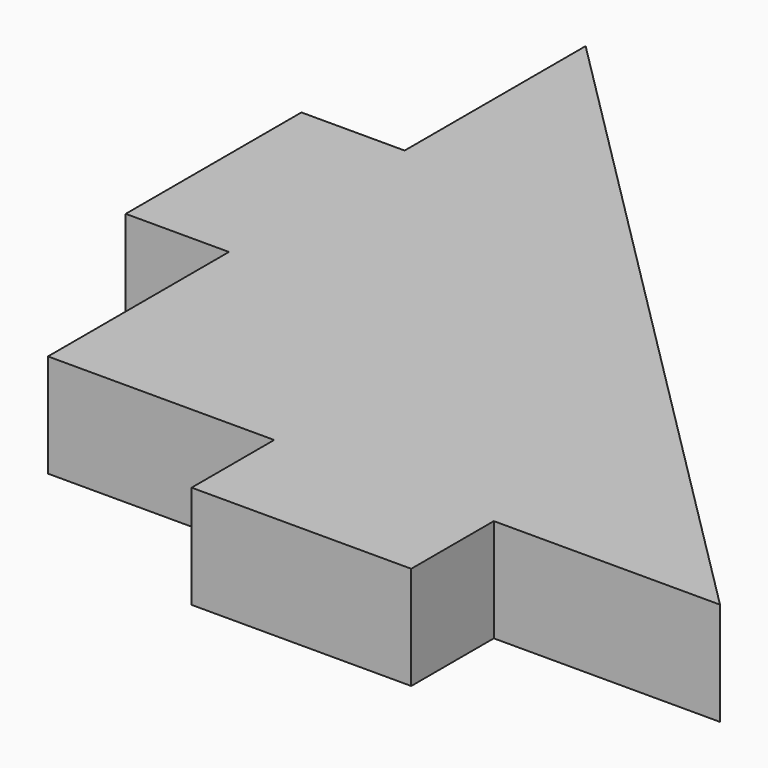
from build123d import *

# Parameters (mm, degrees)
F1_DEPTH = 11.938
F0_W     = 11.938
F0_H     = 25.4
F0_W_2   = 25.4
F0_H_2   = 11.938
F2_DEPTH = 11.938


with BuildPart() as f1:
    # F0 (on Top) → F1 (new body)
    with BuildSketch(Plane.XY):
        Polygon((0, 26.162), (0, 0), (26.162, 0), (51.562, 0), (77.724, 0), (0, 77.724), (0, 51.562), align=None)
    extrude(amount=F1_DEPTH)

    # F0 (on Top) → F2 (join)
    with BuildSketch(Plane.XY):
        with Locations((-5.969, 38.862)):
            Rectangle(F0_W, F0_H)
        with Locations((38.862, -5.969)):
            Rectangle(F0_W_2, F0_H_2)
    extrude(amount=F2_DEPTH)


solid = f1.part
